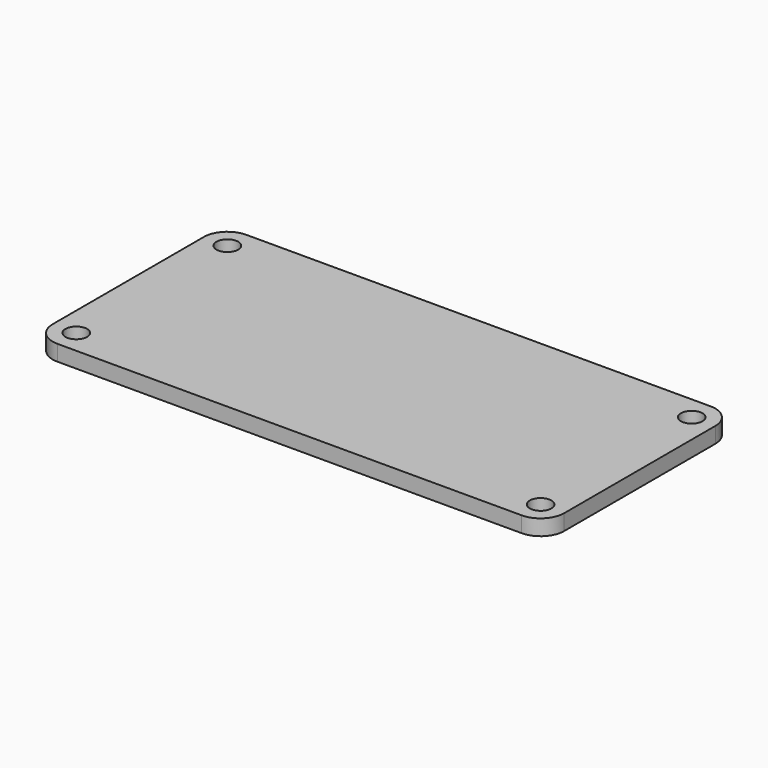
from build123d import *

# Parameters (mm, degrees)
F0_R     = 1.375
F0_W     = 50
F0_H     = 5
F1_DEPTH = 2


with BuildPart() as f1:
    # F0 (on Top) → F1 (new body)
    with BuildSketch(Plane.XY):
        with BuildLine():
            ThreePointArc((32.5, 12), (31.62132, 14.12132), (29.5, 15))
            Line((29.5, 15), (-29.5, 15))
            ThreePointArc((-29.5, 15), (-31.62132, 14.12132), (-32.5, 12))
            Line((-32.5, 12), (-32.5, -12))
            ThreePointArc((-32.5, -12), (-31.62132, -14.12132), (-29.5, -15))
            Line((-29.5, -15), (29.5, -15))
            ThreePointArc((29.5, -15), (31.62132, -14.12132), (32.5, -12))
            Line((32.5, -12), (32.5, 12))
        make_face()
        with Locations((-29.5, -12)):
            Circle(F0_R, mode=Mode.SUBTRACT)
        with Locations((29.5, -12)):
            Circle(F0_R, mode=Mode.SUBTRACT)
        with Locations((-29.5, 12)):
            Circle(F0_R, mode=Mode.SUBTRACT)
        with Locations((0, 11.5)):
            Rectangle(F0_W, F0_H, mode=Mode.SUBTRACT)
        with Locations((29.5, 12)):
            Circle(F0_R, mode=Mode.SUBTRACT)
        with Locations((0, 11.5)):
            Rectangle(F0_W, F0_H)
    extrude(amount=F1_DEPTH)


solid = f1.part
